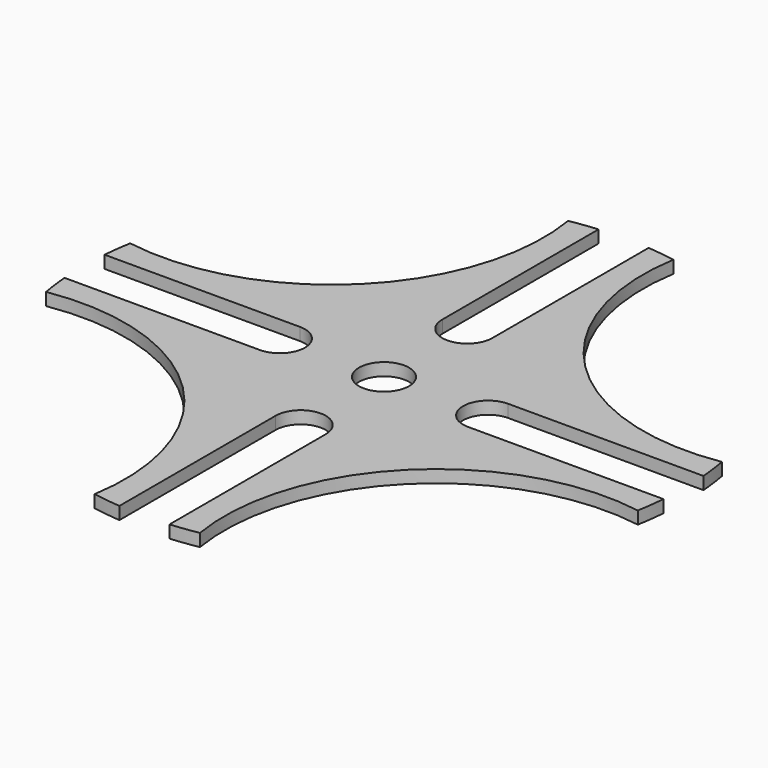
from build123d import *

# Parameters (mm, degrees)
F0_R     = 6.35
F1_DEPTH = 3.175


with BuildPart() as f1:
    # F0 (on Top) → F1 (new body)
    with BuildSketch(Plane.XY):
        with BuildLine():
            Line((-6.35, 42.8625), (-6.35, 75.934956))
            ThreePointArc((-6.35, 75.934956), (-9.853031, 75.560292), (-13.335, 75.024115))
            ThreePointArc((-13.335, 75.024115), (-28.346549, 28.346549), (-75.024115, 13.335))
            ThreePointArc((-75.024115, 13.335), (-75.560292, 9.853031), (-75.934956, 6.35))
            Line((-75.934956, 6.35), (-42.8625, 6.35))
            Line((-42.8625, 6.35), (-26.404956, 6.35))
            ThreePointArc((-26.404956, 6.35), (-20.054956, 0), (-26.404956, -6.35))
            Line((-26.404956, -6.35), (-42.8625, -6.35))
            Line((-42.8625, -6.35), (-75.934956, -6.35))
            ThreePointArc((-75.934956, -6.35), (-75.560292, -9.853031), (-75.024115, -13.335))
            ThreePointArc((-75.024115, -13.335), (-28.346549, -28.346549), (-13.335, -75.024115))
            ThreePointArc((-13.335, -75.024115), (-9.853031, -75.560292), (-6.35, -75.934956))
            Line((-6.35, -75.934956), (-6.35, -42.8625))
            Line((-6.35, -42.8625), (-6.35, -26.404956))
            ThreePointArc((-6.35, -26.404956), (0, -20.054956), (6.35, -26.404956))
            Line((6.35, -26.404956), (6.35, -42.8625))
            Line((6.35, -42.8625), (6.35, -75.934956))
            ThreePointArc((6.35, -75.934956), (9.853031, -75.560292), (13.335, -75.024115))
            ThreePointArc((13.335, -75.024115), (28.346549, -28.346549), (75.024115, -13.335))
            ThreePointArc((75.024115, -13.335), (75.560292, -9.853031), (75.934956, -6.35))
            Line((75.934956, -6.35), (42.8625, -6.35))
            Line((42.8625, -6.35), (26.404956, -6.35))
            ThreePointArc((26.404956, -6.35), (20.054956, 0), (26.404956, 6.35))
            Line((26.404956, 6.35), (42.8625, 6.35))
            Line((42.8625, 6.35), (75.934956, 6.35))
            ThreePointArc((75.934956, 6.35), (75.560292, 9.853031), (75.024115, 13.335))
            ThreePointArc((75.024115, 13.335), (28.346549, 28.346549), (13.335, 75.024115))
            ThreePointArc((13.335, 75.024115), (9.853031, 75.560292), (6.35, 75.934956))
            Line((6.35, 75.934956), (6.35, 42.8625))
            Line((6.35, 42.8625), (6.35, 26.404956))
            ThreePointArc((6.35, 26.404956), (0, 20.054956), (-6.35, 26.404956))
            Line((-6.35, 26.404956), (-6.35, 42.8625))
        make_face()
        Circle(F0_R, mode=Mode.SUBTRACT)
    extrude(amount=F1_DEPTH)


solid = f1.part
